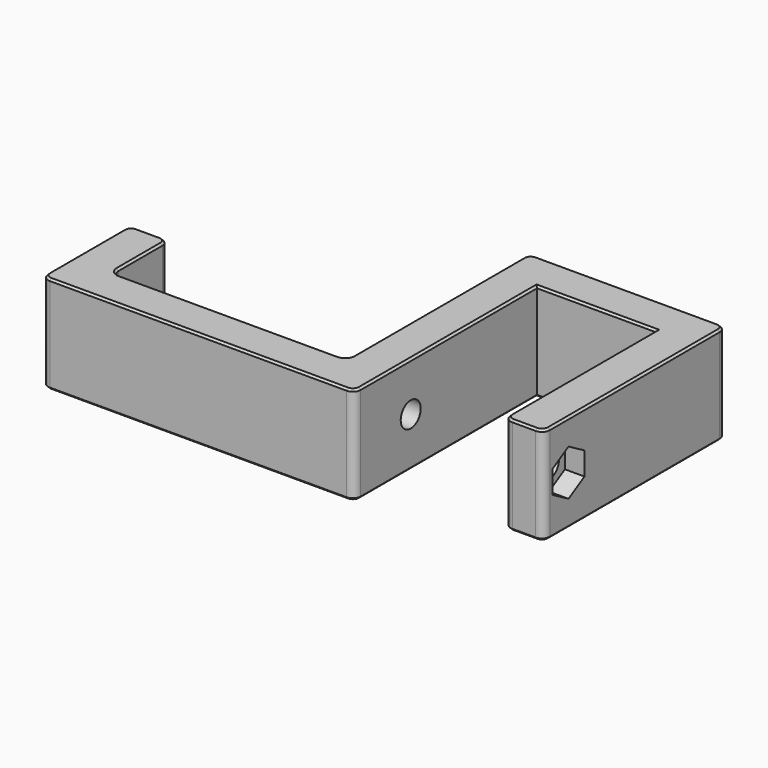
from build123d import *

# Parameters (mm, degrees)
F0_W     = 10
F0_H     = 18
F1_DEPTH = 25
F2_R     = 3.2
F3_DEPTH = 50.401
F2_R_2   = 5.2
F4_DEPTH = 5
F5_R     = 3.2
F6_DEPTH = 5
F7_R     = 2
F8_SIZE  = 0.5


with BuildPart() as f1:
    # F0 (on Top) → F1 (new body)
    with BuildSketch(Plane.XY):
        Polygon((-15.2, 15.2), (15.2, 15.2), (15.2, -33.2), (25.2, -33.2), (25.2, 25.2), (-25.2, 25.2), (-25.2, -33.2), (-15.2, -33.2), align=None)
        Polygon((-15.2, -43.2), (-15.2, -33.2), (-25.2, -33.2), (-85.2, -33.2), (-95.2, -33.2), (-95.2, -43.2), align=None)
        with Locations((-90.2, -24.2)):
            Rectangle(F0_W, F0_H)
    extrude(amount=F1_DEPTH)

    # F2 (on face) → F3 (cut, through all)
    with BuildSketch(Plane(origin=(-25.2, 0, 0), x_dir=(0, -1, 0), z_dir=(-1, 0, 0))):
        with Locations((25.2, 12.5)):
            Circle(F2_R)
    extrude(amount=-F3_DEPTH, mode=Mode.SUBTRACT)

    # F2 (on face) → F4 (cut)
    with BuildSketch(Plane(origin=(-25.2, 0, 0), x_dir=(0, -1, 0), z_dir=(-1, 0, 0))):
        with Locations((25.2, 12.5)):
            Circle(F2_R_2)
        with Locations((25.2, 12.5)):
            Circle(F2_R, mode=Mode.SUBTRACT)
    extrude(amount=-F4_DEPTH, mode=Mode.SUBTRACT)

    # F5 (on face) → F6 (cut)
    with BuildSketch(Plane.YZ.offset(25.2)):
        Polygon((-30.3, 9.555514), (-25.2, 6.611027), (-20.1, 9.555514), (-20.1, 15.444486), (-25.2, 18.388973), (-30.3, 15.444486), align=None)
        with Locations((-25.2, 12.5)):
            Circle(F5_R, mode=Mode.SUBTRACT)
    extrude(amount=-F6_DEPTH, mode=Mode.SUBTRACT)

    # F7
    f7_edges = [f1.edges().sort_by_distance(p)[0] for p in [
        (-25.2, -33.2, 12.5),
        (-15.2, -43.2, 12.5),
        (15.2, -33.2, 12.5),
        (25.2, -33.2, 12.5),
        (25.2, 25.2, 12.5),
        (-85.2, -33.2, 12.5),
        (-85.2, -15.2, 12.5),
        (-95.2, -15.2, 12.5),
        (-95.2, -43.2, 12.5),
        (-25.2, 25.2, 12.5),
    ]]
    fillet(f7_edges, radius=F7_R)

    # F8
    f8_edges = [f1.edges().sort_by_distance(p)[0] for p in [
        (15.2, -8, 25),
        (15.785786, -32.614214, 25),
        (0, 15.2, 25),
        (20.2, -33.2, 25),
        (-15.2, -13, 25),
        (24.614214, -32.614214, 25),
        (-15.785786, -42.614214, 25),
        (25.2, -4, 25),
        (-55.2, -43.2, 25),
        (24.614214, 24.614214, 25),
        (-94.614214, -42.614214, 25),
        (0, 25.2, 25),
        (-95.2, -29.2, 25),
        (-24.614214, 24.614214, 25),
        (-94.614214, -15.785786, 25),
        (-25.2, -4, 25),
        (-90.2, -15.2, 25),
        (-25.785786, -32.614214, 25),
        (-85.785786, -15.785786, 25),
        (-55.2, -33.2, 25),
        (-85.2, -24.2, 25),
        (-84.614214, -32.614214, 25),
        (15.2, -8, 0),
        (15.785786, -32.614214, 0),
        (0, 15.2, 0),
        (20.2, -33.2, 0),
        (-15.2, -13, 0),
        (24.614214, -32.614214, 0),
        (-15.785786, -42.614214, 0),
        (25.2, -4, 0),
        (-55.2, -43.2, 0),
        (24.614214, 24.614214, 0),
        (-94.614214, -42.614214, 0),
        (0, 25.2, 0),
        (-95.2, -29.2, 0),
        (-24.614214, 24.614214, 0),
        (-94.614214, -15.785786, 0),
        (-25.2, -4, 0),
        (-90.2, -15.2, 0),
        (-25.785786, -32.614214, 0),
        (-85.785786, -15.785786, 0),
        (-55.2, -33.2, 0),
        (-85.2, -24.2, 0),
        (-84.614214, -32.614214, 0),
    ]]
    chamfer(f8_edges, length=F8_SIZE)


solid = f1.part
